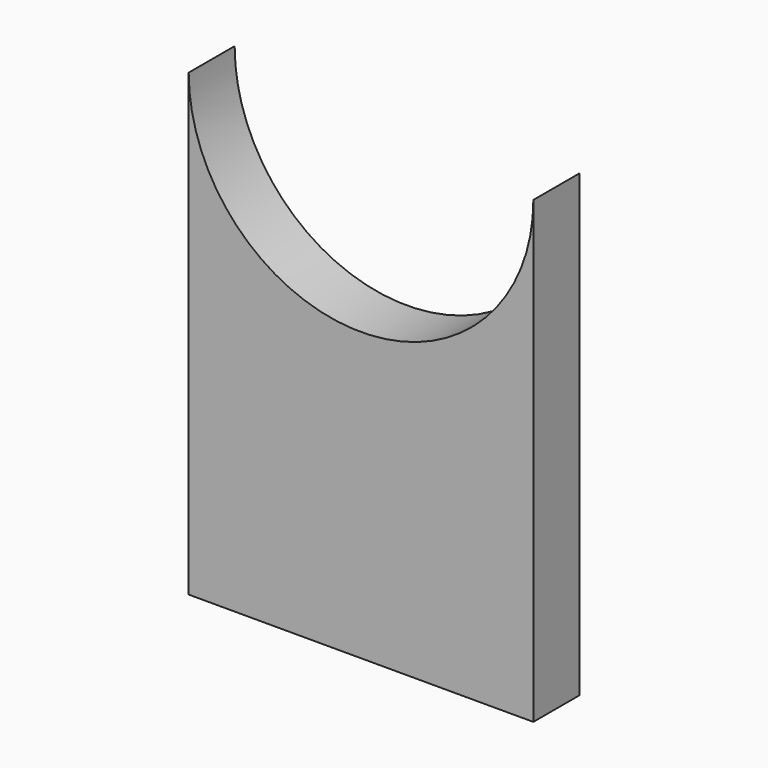
from build123d import *

# Parameters (mm, degrees)
F1_DEPTH = 6.35
F3_D     = 3.175
F3_DEPTH = 12.7
F3_TIP   = 0.9538662327


with BuildPart() as f1:
    # F0 (on Front) → F1 (new body)
    with BuildSketch(Plane.XZ):
        with BuildLine():
            Line((0, 50.8), (0, 0))
            Line((0, 0), (38.1, 0))
            Line((38.1, 0), (38.1, 50.8))
            ThreePointArc((38.1, 50.8), (19.05, 31.75), (0, 50.8))
        make_face()
    extrude(amount=F1_DEPTH)

    # F3
    with Locations(Plane(origin=(0, 0, 0), x_dir=(1, 0, 0), z_dir=(0, 0, -1))):
        with Locations((3.175, 3.175), (34.925, 3.175)):
            Hole(F3_D / 2, depth=F3_DEPTH)
            with Locations((0, 0, -(F3_DEPTH + F3_TIP / 2))):  # 118° drill point
                Cone(0, F3_D / 2, F3_TIP, mode=Mode.SUBTRACT)


solid = f1.part
